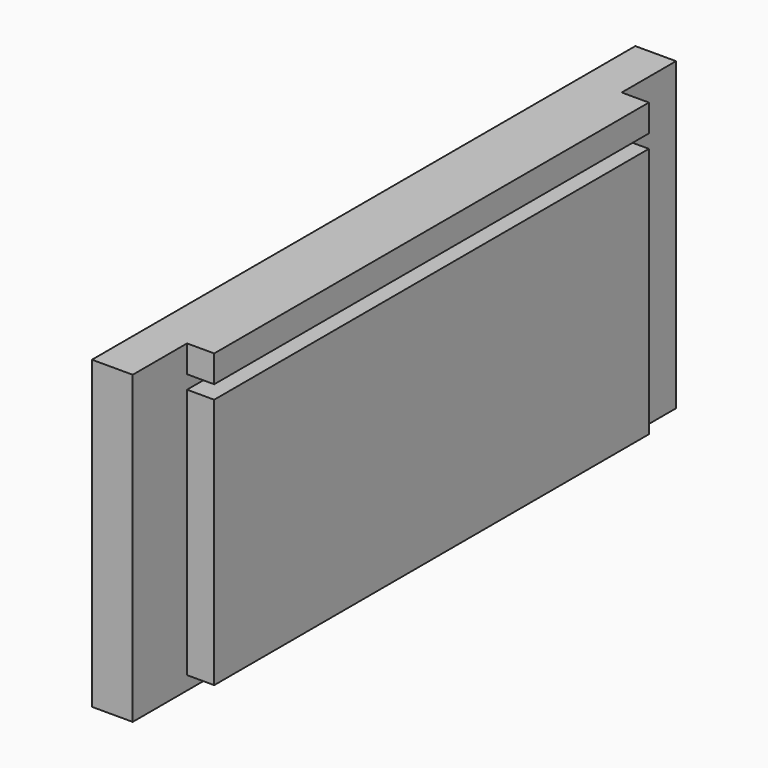
from build123d import *

# Parameters (mm, degrees)
F0_W     = 160
F0_H     = 74
F1_DEPTH = 20
F2_DEPTH = 12
F0_H_2   = 8
F3_DEPTH = 20


with BuildPart() as f1:
    # F0 (on Right) → F1 (new body)
    with BuildSketch(Plane.YZ):
        with Locations((-1.643736, 4.207602)):
            Rectangle(F0_W, F0_H)
    extrude(amount=F1_DEPTH)

    # F0 (on Right) → F2 (join)
    with BuildSketch(Plane.YZ):
        Polygon((-81.643736, 53.207602), (-101.643736, 53.207602), (-101.643736, -36.792398), (98.356264, -36.792398), (98.356264, 53.207602), (78.356264, 53.207602), (78.356264, 45.207602), (-81.643736, 45.207602), align=None)
        with Locations((-1.643736, 4.207602)):
            Rectangle(F0_W, F0_H, mode=Mode.SUBTRACT)
    extrude(amount=F2_DEPTH)

    # F0 (on Right) → F3 (join)
    with BuildSketch(Plane.YZ):
        with Locations((-1.643736, 49.207602)):
            Rectangle(F0_W, F0_H_2)
    extrude(amount=F3_DEPTH)


solid = f1.part
